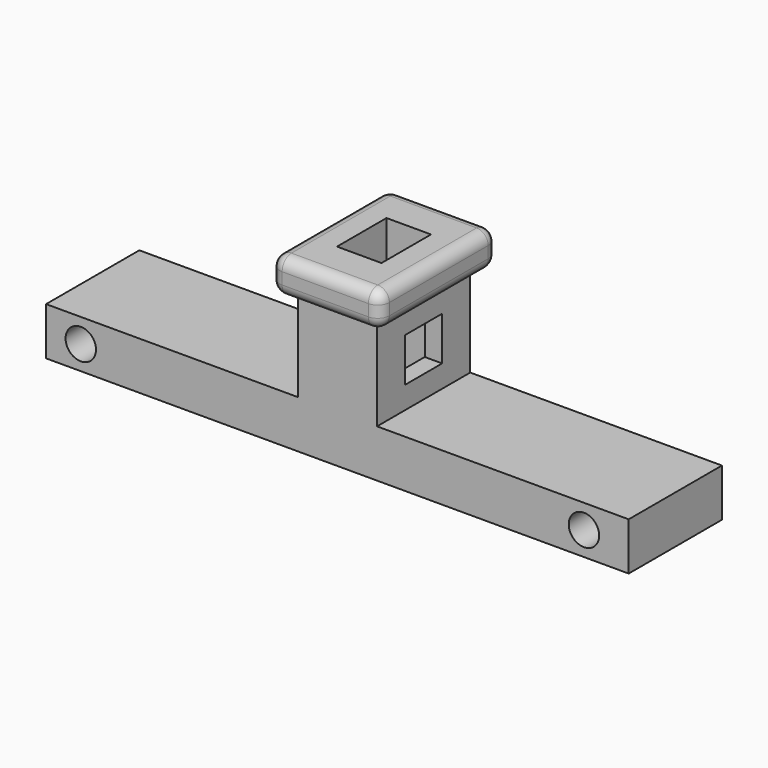
from build123d import *

# Parameters (mm, degrees)
F0_W     = 21.598608559
F0_H     = 10
F0_W_2   = 6.802782882
F0_W_3   = 3.8192358334
F0_H_2   = 5.3111389279
F1_DEPTH = 4.1
F2_DEPTH = 15
F3_W     = 3.9702160284
F3_H     = 3.7578037009
F4_DEPTH = 1.4917735243
F5_R     = 1.3059385841
F6_DEPTH = 10.001
F7_W     = 9.4027826563
F7_H     = 12.5999997742
F7_W_2   = 6.802782882
F7_H_2   = 10
F7_W_3   = 3.8192358334
F7_H_3   = 5.3111389279
F8_DEPTH = 3
F9_R     = 1


with BuildPart() as f1:
    # F0 (on Top) → F1 (new body)
    with BuildSketch(Plane.XY):
        with Locations((-14.2006957205, 0)):
            Rectangle(F0_W, F0_H)
        with Locations((14.2006957205, 0)):
            Rectangle(F0_W, F0_H)
        Rectangle(F0_W_2, F0_H)
        Rectangle(F0_W_3, F0_H_2, mode=Mode.SUBTRACT)
        Rectangle(F0_W_3, F0_H_2)
    extrude(amount=F1_DEPTH)

    # F0 (on Top) → F2 (join)
    with BuildSketch(Plane.XY):
        Rectangle(F0_W_2, F0_H)
        Rectangle(F0_W_3, F0_H_2, mode=Mode.SUBTRACT)
    extrude(amount=F2_DEPTH)

    # F3 (on face) → F4 (cut, through all)
    with BuildSketch(Plane.YZ.offset(3.401391441)):
        with Locations((0, 7.8942701221)):
            Rectangle(F3_W, F3_H)
    extrude(amount=-F4_DEPTH, mode=Mode.SUBTRACT)

    # F5 (on face) → F6 (cut, through all)
    with BuildSketch(Plane.XZ.offset(5)):
        with Locations((-22.0196954906, 2.05)):
            Circle(F5_R)
        with Locations((21.1608465761, 2.05)):
            Circle(F5_R)
    extrude(amount=-F6_DEPTH, mode=Mode.SUBTRACT)

    # F7 (on face) → F8 (join)
    with BuildSketch(Plane.XY.offset(15)):
        Rectangle(F7_W, F7_H)
        Rectangle(F7_W_2, F7_H_2, mode=Mode.SUBTRACT)
        Rectangle(F7_W_2, F7_H_2)
        Rectangle(F7_W_3, F7_H_3, mode=Mode.SUBTRACT)
    extrude(amount=-F8_DEPTH)

    # F9
    f9_edges = [f1.edges().sort_by_distance(p)[0] for p in [
        (-4.701391, 0, 15),
        (0, -6.3, 15),
        (0, -6.3, 12),
        (4.701391, 0, 12),
        (0, 6.3, 15),
        (-4.701391, 0, 12),
        (0, 6.3, 12),
        (4.701391, 0, 15),
        (4.701391, -6.3, 13.5),
        (4.701391, 6.3, 13.5),
        (-4.701391, 6.3, 13.5),
        (-4.701391, -6.3, 13.5),
    ]]
    fillet(f9_edges, radius=F9_R)


solid = f1.part
